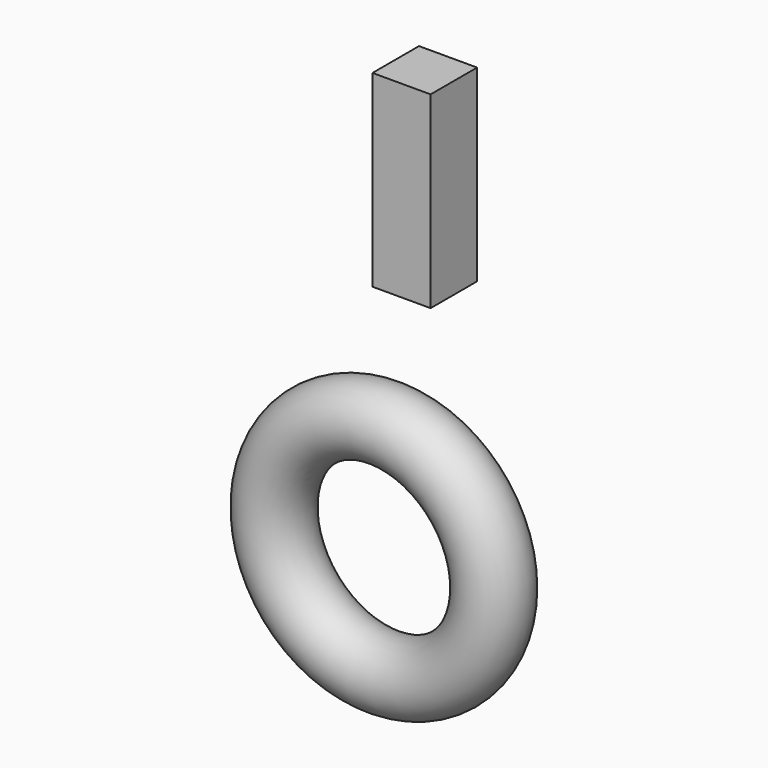
from build123d import *

# Parameters (mm, degrees)
F0_R     = 18.075558
F3_W     = 30.862806
F3_H     = 30.875058
F4_DEPTH = 100


with BuildPart() as f1:
    # F0 (on Top) → F1 (revolve)
    with BuildSketch(Plane.XY):
        with Locations((58.342226, 7.562881)):
            Circle(F0_R)
    revolve(axis=Axis((0, -0.600228, 0), (0, -1, 0)))


with BuildPart() as f4:
    # F3 (on offset) → F4 (new body)
    with BuildSketch(Plane.XY.offset(119.7)):
        with Locations((9.136903, 23.301381)):
            Rectangle(F3_W, F3_H)
    extrude(amount=F4_DEPTH)


solid = Compound([f1.part, f4.part])
